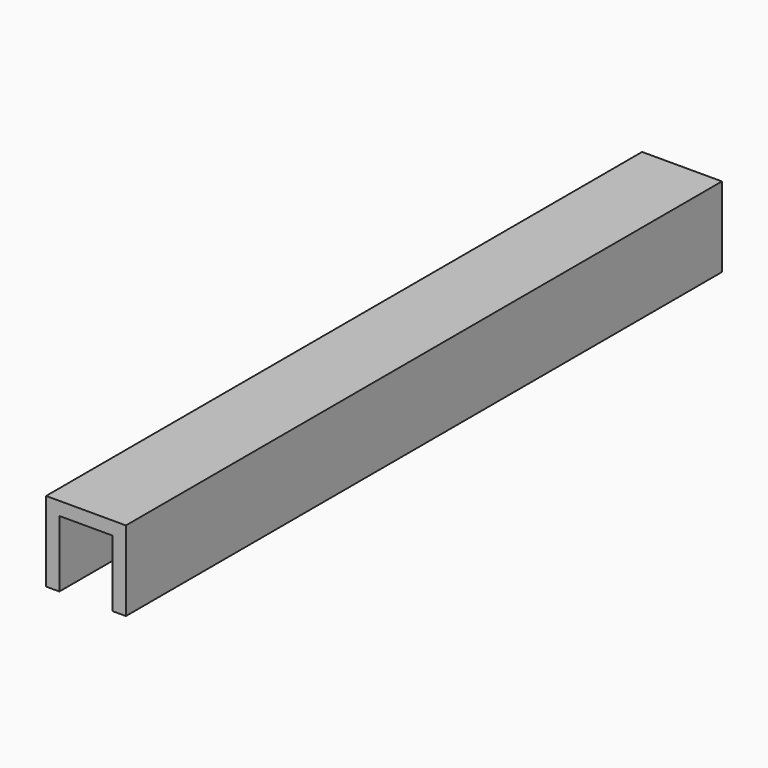
from build123d import *

# Parameters (mm, degrees)
F1_DEPTH      = 140
F1_DEPTH_BACK = 140


with BuildPart() as f1:
    # F0 (on Front) → F1 (new body, two sides)
    with BuildSketch(Plane.XZ) as f1_sk:
        Polygon((15, -15), (15, 15), (-15, 15), (-15, -15), (-10, -15), (-10, 10), (10, 10), (10, -15), align=None)
    extrude(amount=F1_DEPTH)
    extrude(f1_sk.sketch, amount=-F1_DEPTH_BACK)


solid = f1.part
